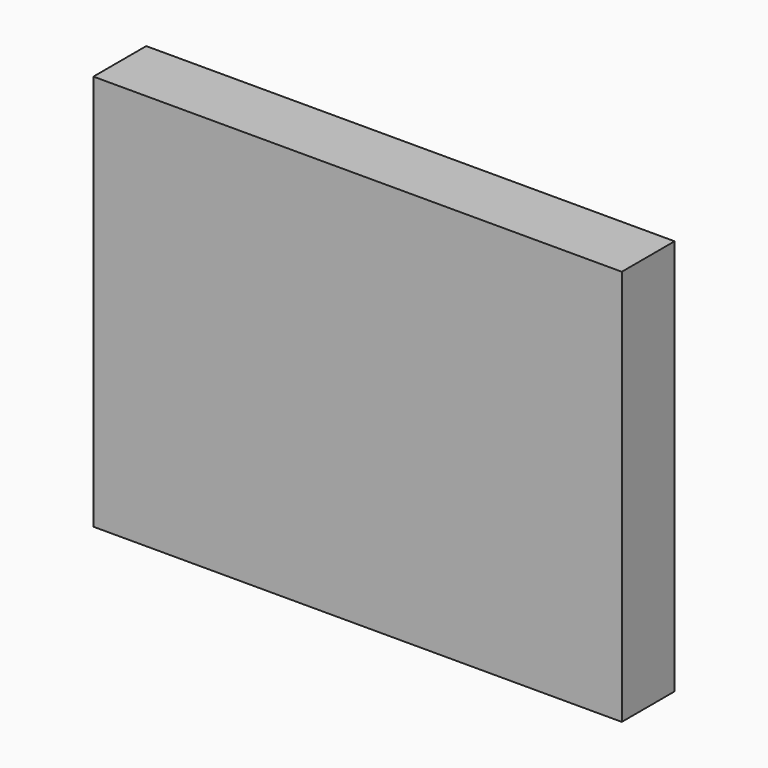
from build123d import *

# Parameters (mm, degrees)
F1_DEPTH = 12.7


with BuildPart() as f1:
    # F0 (on Front) → F1 (new body)
    with BuildSketch(Plane.XZ):
        with BuildLine():
            Line((0, 76.2), (0, 0))
            Line((0, 0), (25.4, 0))
            ThreePointArc((25.4, 0), (47.718463, 53.881537), (101.6, 76.2))
            Line((101.6, 76.2), (0, 76.2))
        make_face()
        with BuildLine():
            ThreePointArc((101.6, 76.2), (47.718463, 53.881537), (25.4, 0))
            Line((25.4, 0), (101.6, 0))
            Line((101.6, 0), (101.6, 76.2))
        make_face()
    extrude(amount=-F1_DEPTH)


solid = f1.part
